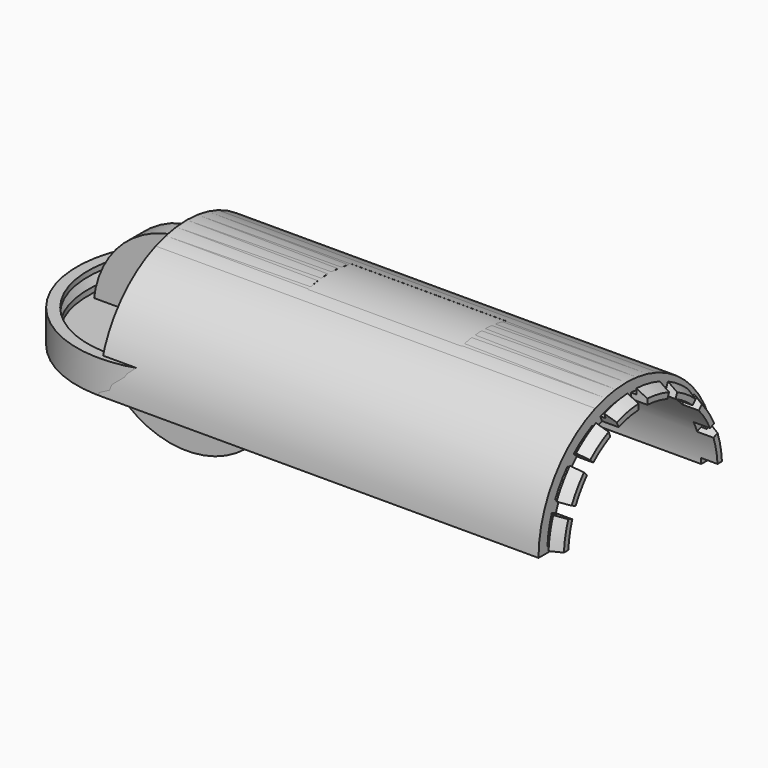
from build123d import *

# Parameters (mm, degrees)
POCKET_DEPTH          = 5
REVOLUTION002_ANGLE   = 180
SKETCH004_W           = 70
SKETCH004_H           = 25
POCKET001_DEPTH       = 50
SKETCH005_W           = 10
SKETCH005_H           = 5
POCKET002_DEPTH       = 521.408467
POLARPATTERN_COUNT    = 16
REVOLUTION003_ANGLE   = 180
SKETCH008_W           = 10
SKETCH008_H           = 5
POCKET004_DEPTH       = 521.408467
POLARPATTERN001_COUNT = 16
SKETCH009_R           = 1
PAD_DEPTH             = 2


with BuildPart() as cap:
    # Sketch001 → Revolution001 (revolve)
    with BuildSketch(Plane.XZ):
        Polygon((0, 0), (50, 0), (50, 15), (45, 15), (45, 12.6), (47.5, 12.6), (45, 7.5), (45, 5), (5, 5), (5, 15), (0, 15), align=None)
    revolve(axis=Axis((0, 0, 0), (0, 0, 1)))

    # Sketch002 (on Face10 of Revolution001) → Pocket (cut)
    with BuildSketch(Plane(origin=(0, 0, 15), x_dir=(-1, 0, 0), z_dir=(0, 0, 1))):
        with BuildLine():
            Line((-2.236068, -2), (2.236068, -2))
            ThreePointArc((2.236068, -2), (0, 3), (-2.236068, -2))
        make_face()
    extrude(amount=-POCKET_DEPTH, mode=Mode.SUBTRACT)


with BuildPart() as body002:
    # Sketch003 → Revolution002 (revolve)
    with BuildSketch(Plane.XY):
        Polygon((0, 0), (0, 50), (200, 50), (200, 45), (202.5, 45), (202.5, 47.5), (207.5, 45), (207.5, 42.5), (7.5, 42.5), (7.5, 0), align=None)
    revolve(axis=Axis((0, 0, 0), (1, 0, 0)), revolution_arc=REVOLUTION002_ANGLE)

    # Sketch004 → Pocket001 (cut)
    with BuildSketch(Plane.XY):
        with Locations((100, 0)):
            Rectangle(SKETCH004_W, SKETCH004_H)
    extrude(amount=POCKET001_DEPTH, mode=Mode.SUBTRACT)

    # Sketch005 → Pocket002 (cut, through all)
    with BuildSketch(Plane.XY):
        with Locations((205, 0)):
            Rectangle(SKETCH005_W, SKETCH005_H)
    pocket002 = extrude(amount=POCKET002_DEPTH, mode=Mode.SUBTRACT)

    # PolarPattern: Pocket002 ×16 about axis
    polarpattern_axis = Axis((0, 0, 0), (1, 0, 0))
    for i in range(1, POLARPATTERN_COUNT):
        add(pocket002.rotate(polarpattern_axis, i * 360 / POLARPATTERN_COUNT), mode=Mode.SUBTRACT)


with BuildPart() as body003:
    # Sketch006 → Revolution003 (revolve)
    with BuildSketch(Plane.XY):
        Polygon((0, 0), (0, 50), (200, 50), (200, 45), (202.5, 45), (202.5, 47.5), (207.5, 45), (207.5, 42.5), (7.5, 42.5), (7.5, 0), align=None)
    revolve(axis=Axis((0, 0, 0), (1, 0, 0)), revolution_arc=REVOLUTION003_ANGLE)

    # Sketch008 → Pocket004 (cut, through all)
    with BuildSketch(Plane.XY):
        with Locations((205, 0)):
            Rectangle(SKETCH008_W, SKETCH008_H)
    pocket004 = extrude(amount=POCKET004_DEPTH, mode=Mode.SUBTRACT)

    # PolarPattern001: Pocket004 ×16 about axis
    polarpattern001_axis = Axis((0, 0, 0), (1, 0, 0))
    for i in range(1, POLARPATTERN001_COUNT):
        add(pocket004.rotate(polarpattern001_axis, i * 360 / POLARPATTERN001_COUNT), mode=Mode.SUBTRACT)


with BuildPart() as holder:
    # Sketch → Revolution (revolve)
    with BuildSketch(Plane.YZ):
        Polygon((0, 0), (0, 42.5), (10, 42.5), (10, 40), (2.5, 40), (2.5, 0), align=None)
    revolve(axis=Axis((0, 0, 0), (0, 1, 0)))

    # Sketch009 (on Face5 of Revolution) → Pad (new body)
    with BuildSketch(Plane.ZX.offset(2.5)):
        with Locations((8, 16)):
            Circle(SKETCH009_R)
        with Locations((8, -16)):
            Circle(SKETCH009_R)
        with Locations((-8, -16)):
            Circle(SKETCH009_R)
        with Locations((-8, 16)):
            Circle(SKETCH009_R)
    extrude(amount=PAD_DEPTH)


solid = Compound([cap.part, body002.part, body003.part, holder.part])
